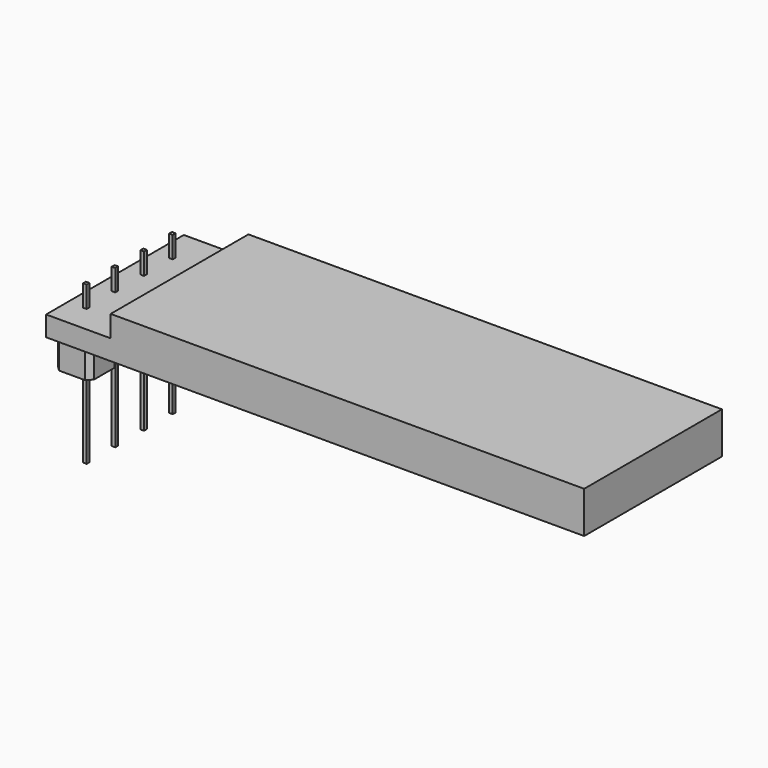
from build123d import *

# Parameters (mm, degrees)
SKETCH_W               = 37.5
SKETCH_H               = 12
PAD_DEPTH              = 1.4
SKETCH001_W            = 33
SKETCH001_H            = 12
PAD001_DEPTH           = 1.5
SKETCH002_W            = 0.25
SKETCH002_H            = 0.25
PAD002_DEPTH           = 1.5
PAD002_DEPTH_BACK      = 9.5
LINEARPATTERN_COUNT    = 4
LINEARPATTERN_PITCH    = 2.5
PAD003_DEPTH           = 2.25
LINEARPATTERN001_COUNT = 4
LINEARPATTERN001_PITCH = 2.5


with BuildPart() as part:
    # Sketch → Pad (new body)
    with BuildSketch(Plane.XY):
        Rectangle(SKETCH_W, SKETCH_H)
    extrude(amount=PAD_DEPTH)

    # Sketch001 (on Face6 of Pad) → Pad001 (join)
    with BuildSketch(Plane.XY.offset(1.4)):
        with Locations((2.25, 0)):
            Rectangle(SKETCH001_W, SKETCH001_H)
    extrude(amount=PAD001_DEPTH)

    # Sketch002 (on Face5 of Pad001) → Pad002 (join, two sides)
    with BuildSketch(Plane.XY.offset(1.4)) as pad002_sk:
        with Locations((-17.55, -4)):
            Rectangle(SKETCH002_W, SKETCH002_H)
    pad002 = extrude(amount=PAD002_DEPTH) + extrude(pad002_sk.sketch, amount=-PAD002_DEPTH_BACK)

    # LinearPattern: Pad002 ×4
    with Locations(*[(0, i * LINEARPATTERN_PITCH, 0) for i in range(1, LINEARPATTERN_COUNT)]):
        add(pad002)

    # Sketch003 (on Face4 of LinearPattern) → Pad003 (join)
    with BuildSketch(Plane(origin=(0, 0, 0), x_dir=(1, 0, 0), z_dir=(0, 0, -1))):
        Polygon((-18.8, 4.896447), (-18.446447, 5.25), (-16.653553, 5.25), (-16.3, 4.896447), (-16.3, 3.103553), (-16.653553, 2.75), (-18.446447, 2.75), (-18.8, 3.103553), align=None)
    pad003 = extrude(amount=PAD003_DEPTH)

    # LinearPattern001: Pad003 ×4
    with Locations(*[(0, i * LINEARPATTERN001_PITCH, 0) for i in range(1, LINEARPATTERN001_COUNT)]):
        add(pad003)


solid = part.part
